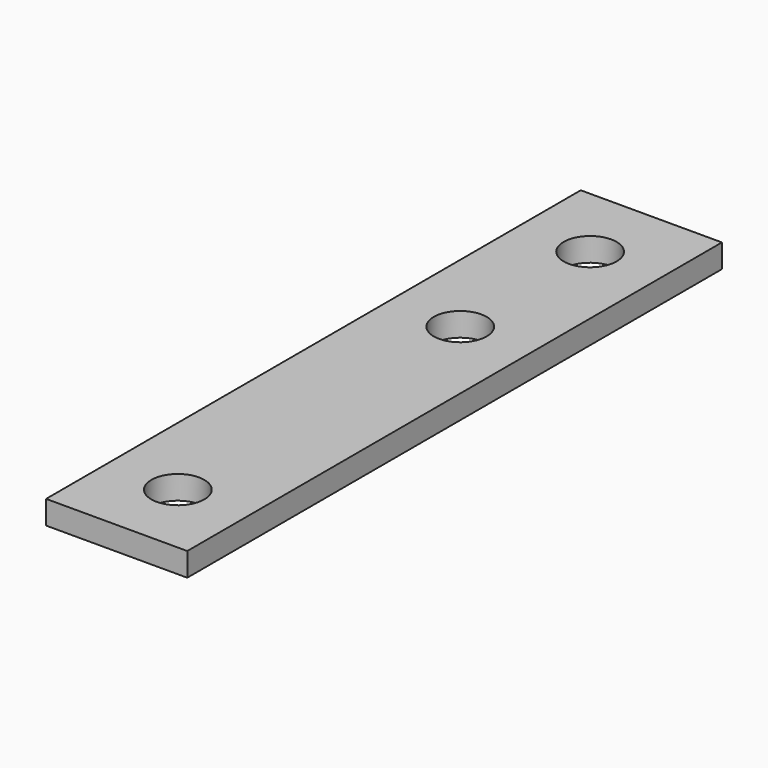
from build123d import *

# Parameters (mm, degrees)
F0_W     = 38.1
F0_H     = 180.34
F0_R     = 7.14375
F1_DEPTH = 3.175


with BuildPart() as f1:
    # F0 (on Top) → F1 (new body, symmetric)
    with BuildSketch(Plane.XY):
        Rectangle(F0_W, F0_H)
        with Locations((0, -69.5325)):
            Circle(F0_R, mode=Mode.SUBTRACT)
        with Locations((0, 25.7175)):
            Circle(F0_R, mode=Mode.SUBTRACT)
        with Locations((0, 69.5325)):
            Circle(F0_R, mode=Mode.SUBTRACT)
    extrude(amount=F1_DEPTH, both=True)


solid = f1.part
